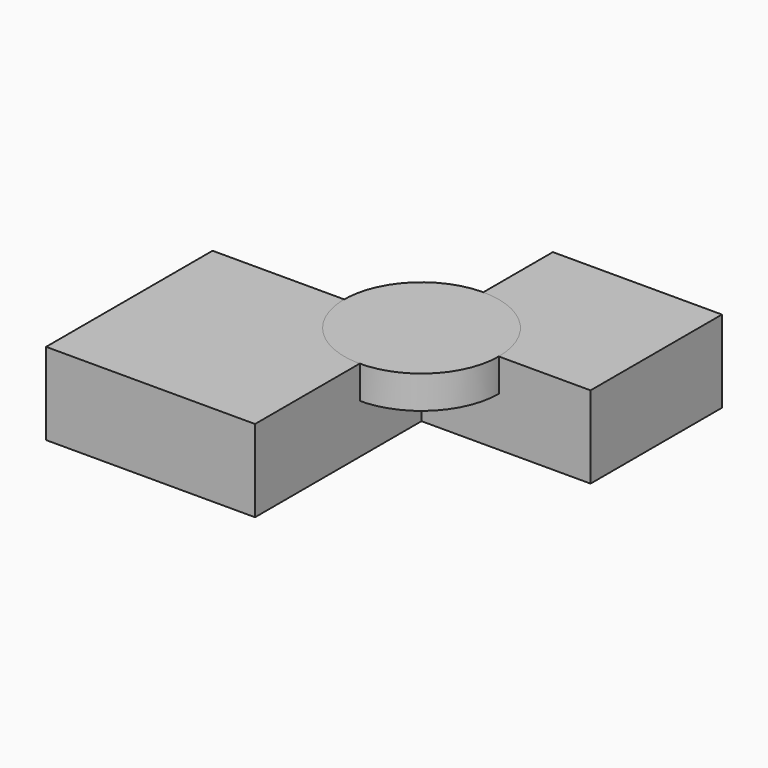
from build123d import *

# Parameters (mm, degrees)
F0_W     = 63.6219605803
F0_H     = 63.3600354195
F1_DEPTH = 25
F0_W_2   = 51.4722249205
F0_H_2   = 50
F2_R     = 23.5297325909
F3_DEPTH = 10


with BuildPart() as f1:
    # F0 (on Top) → F1 (new body)
    with BuildSketch(Plane.XY):
        with Locations((-31.8109802902, -31.6800177097)):
            Rectangle(F0_W, F0_H)
    extrude(amount=F1_DEPTH)


with BuildPart() as f1b:
    # F0 (on Top) → F1, piece 2 (new body)
    with BuildSketch(Plane.XY):
        with Locations((25.7361124603, 25)):
            Rectangle(F0_W_2, F0_H_2)
    extrude(amount=F1_DEPTH)


with BuildPart() as f3:
    # F2 (on face) → F3 (new body)
    with BuildSketch(Plane.XY.offset(25)):
        Circle(F2_R)
    extrude(amount=-F3_DEPTH)


solid = Compound([f1.part, f1b.part, f3.part])
